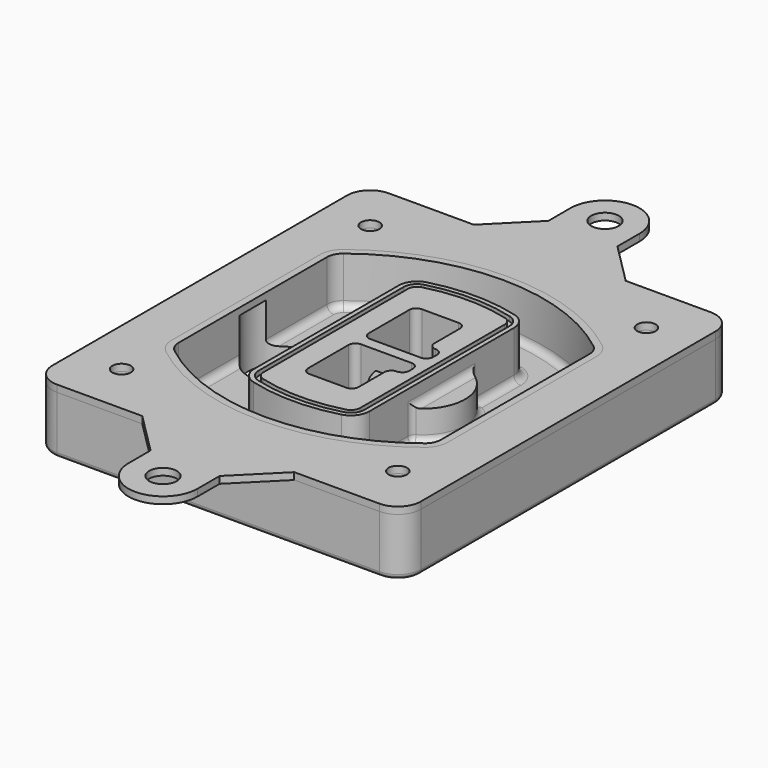
from build123d import *

# Parameters (mm, degrees)
F0_R      = 4
F1_DEPTH  = 25
F2_DEPTH  = 3
F3_DEPTH  = 18
F5_DEPTH  = 21
F6_DEPTH  = 2
F8_DEPTH  = 20
F9_DEPTH  = 16
F10_DEPTH = 25
F7_R      = 6
F7_R_2    = 4
F11_DEPTH = 6
F13_DEPTH = 9
F14_R     = 3
F15_R     = 2
F16_R     = 6
F16_R_2   = 4
F17_DEPTH = 3


with BuildPart() as f1:
    # F0 (on Top) → F1 (new body)
    with BuildSketch(Plane.XY):
        with BuildLine():
            ThreePointArc((-80, -80), (-77.0710678119, -87.0710678119), (-70, -90))
            Line((-70, -90), (70, -90))
            ThreePointArc((70, -90), (77.0710678119, -87.0710678119), (80, -80))
            Line((80, -80), (80, 80))
            ThreePointArc((80, 80), (77.0710678119, 87.0710678119), (70, 90))
            Line((70, 90), (-70, 90))
            ThreePointArc((-70, 90), (-77.0710678119, 87.0710678119), (-80, 80))
            Line((-80, 80), (-80, -80))
        make_face()
        with Locations((-60, -67.5)):
            Circle(F0_R, mode=Mode.SUBTRACT)
        with Locations((60, -67.5)):
            Circle(F0_R, mode=Mode.SUBTRACT)
        with Locations((-60, 67.5)):
            Circle(F0_R, mode=Mode.SUBTRACT)
        with BuildLine():
            ThreePointArc((-64, 40.2934422872), (-62.5820384798, 46.4328484224), (-58.6153846154, 51.3286200352))
            ThreePointArc((-58.6153846154, 51.3286200352), (0, 71.5), (58.6153846154, 51.3286200352))
            ThreePointArc((58.6153846154, 51.3286200352), (62.5820384798, 46.4328484224), (64, 40.2934422872))
            Line((64, 40.2934422872), (64, -40.2934422872))
            ThreePointArc((64, -40.2934422872), (62.5820384798, -46.4328484224), (58.6153846154, -51.3286200352))
            ThreePointArc((58.6153846154, -51.3286200352), (0, -71.5), (-58.6153846154, -51.3286200352))
            ThreePointArc((-58.6153846154, -51.3286200352), (-62.5820384798, -46.4328484224), (-64, -40.2934422872))
            Line((-64, -40.2934422872), (-64, 40.2934422872))
        make_face(mode=Mode.SUBTRACT)
        with Locations((60, 67.5)):
            Circle(F0_R, mode=Mode.SUBTRACT)
        with BuildLine():
            ThreePointArc((58.6153846154, 51.3286200352), (0, 71.5), (-58.6153846154, 51.3286200352))
            ThreePointArc((-58.6153846154, 51.3286200352), (-62.5820384798, 46.4328484224), (-64, 40.2934422872))
            Line((-64, 40.2934422872), (-64, -40.2934422872))
            ThreePointArc((-64, -40.2934422872), (-62.5820384798, -46.4328484224), (-58.6153846154, -51.3286200352))
            ThreePointArc((-58.6153846154, -51.3286200352), (0, -71.5), (58.6153846154, -51.3286200352))
            ThreePointArc((58.6153846154, -51.3286200352), (62.5820384798, -46.4328484224), (64, -40.2934422872))
            Line((64, -40.2934422872), (64, 40.2934422872))
            ThreePointArc((64, 40.2934422872), (62.5820384798, 46.4328484224), (58.6153846154, 51.3286200352))
        make_face()
        with BuildLine():
            Line((-60, -40.2934422872), (-60, 40.2934422872))
            ThreePointArc((-60, 40.2934422872), (-58.9871703427, 44.6787323838), (-56.1538461538, 48.1757121072))
            ThreePointArc((-56.1538461538, 48.1757121072), (0, 67.5), (56.1538461538, 48.1757121072))
            ThreePointArc((56.1538461538, 48.1757121072), (58.9871703427, 44.6787323838), (60, 40.2934422872))
            Line((60, 40.2934422872), (60, -40.2934422872))
            ThreePointArc((60, -40.2934422872), (58.9871703427, -44.6787323838), (56.1538461538, -48.1757121072))
            ThreePointArc((56.1538461538, -48.1757121072), (0, -67.5), (-56.1538461538, -48.1757121072))
            ThreePointArc((-56.1538461538, -48.1757121072), (-58.9871703427, -44.6787323838), (-60, -40.2934422872))
        make_face(mode=Mode.SUBTRACT)
        with BuildLine():
            ThreePointArc((-56.1538461538, 48.1757121072), (-58.9871703427, 44.6787323838), (-60, 40.2934422872))
            Line((-60, 40.2934422872), (-60, -40.2934422872))
            ThreePointArc((-60, -40.2934422872), (-58.9871703427, -44.6787323838), (-56.1538461538, -48.1757121072))
            ThreePointArc((-56.1538461538, -48.1757121072), (0, -67.5), (56.1538461538, -48.1757121072))
            ThreePointArc((56.1538461538, -48.1757121072), (58.9871703427, -44.6787323838), (60, -40.2934422872))
            Line((60, -40.2934422872), (60, 40.2934422872))
            ThreePointArc((60, 40.2934422872), (58.9871703427, 44.6787323838), (56.1538461538, 48.1757121072))
            ThreePointArc((56.1538461538, 48.1757121072), (0, 67.5), (-56.1538461538, 48.1757121072))
        make_face()
        with BuildLine():
            ThreePointArc((54.3076923077, 45.8110311612), (56.2910192399, 43.3631453548), (57, 40.2934422872))
            Line((57, 40.2934422872), (57, -40.2934422872))
            ThreePointArc((57, -40.2934422872), (56.2910192399, -43.3631453548), (54.3076923077, -45.8110311612))
            ThreePointArc((54.3076923077, -45.8110311612), (0, -64.5), (-54.3076923077, -45.8110311612))
            ThreePointArc((-54.3076923077, -45.8110311612), (-56.2910192399, -43.3631453548), (-57, -40.2934422872))
            Line((-57, -40.2934422872), (-57, 40.2934422872))
            ThreePointArc((-57, 40.2934422872), (-56.2910192399, 43.3631453548), (-54.3076923077, 45.8110311612))
            ThreePointArc((-54.3076923077, 45.8110311612), (0, 64.5), (54.3076923077, 45.8110311612))
        make_face(mode=Mode.SUBTRACT)
        with BuildLine():
            Line((57, -40.2934422872), (57, 40.2934422872))
            ThreePointArc((57, 40.2934422872), (56.2910192399, 43.3631453548), (54.3076923077, 45.8110311612))
            ThreePointArc((54.3076923077, 45.8110311612), (0, 64.5), (-54.3076923077, 45.8110311612))
            ThreePointArc((-54.3076923077, 45.8110311612), (-56.2910192399, 43.3631453548), (-57, 40.2934422872))
            Line((-57, 40.2934422872), (-57, -40.2934422872))
            ThreePointArc((-57, -40.2934422872), (-56.2910192399, -43.3631453548), (-54.3076923077, -45.8110311612))
            ThreePointArc((-54.3076923077, -45.8110311612), (0, -64.5), (54.3076923077, -45.8110311612))
            ThreePointArc((54.3076923077, -45.8110311612), (56.2910192399, -43.3631453548), (57, -40.2934422872))
        make_face()
    extrude(amount=-F1_DEPTH)

    # F0 (on Top) → F2 (join)
    with BuildSketch(Plane.XY):
        with BuildLine():
            ThreePointArc((-56.1538461538, 48.1757121072), (-58.9871703427, 44.6787323838), (-60, 40.2934422872))
            Line((-60, 40.2934422872), (-60, -40.2934422872))
            ThreePointArc((-60, -40.2934422872), (-58.9871703427, -44.6787323838), (-56.1538461538, -48.1757121072))
            ThreePointArc((-56.1538461538, -48.1757121072), (0, -67.5), (56.1538461538, -48.1757121072))
            ThreePointArc((56.1538461538, -48.1757121072), (58.9871703427, -44.6787323838), (60, -40.2934422872))
            Line((60, -40.2934422872), (60, 40.2934422872))
            ThreePointArc((60, 40.2934422872), (58.9871703427, 44.6787323838), (56.1538461538, 48.1757121072))
            ThreePointArc((56.1538461538, 48.1757121072), (0, 67.5), (-56.1538461538, 48.1757121072))
        make_face()
        with BuildLine():
            ThreePointArc((54.3076923077, 45.8110311612), (56.2910192399, 43.3631453548), (57, 40.2934422872))
            Line((57, 40.2934422872), (57, -40.2934422872))
            ThreePointArc((57, -40.2934422872), (56.2910192399, -43.3631453548), (54.3076923077, -45.8110311612))
            ThreePointArc((54.3076923077, -45.8110311612), (0, -64.5), (-54.3076923077, -45.8110311612))
            ThreePointArc((-54.3076923077, -45.8110311612), (-56.2910192399, -43.3631453548), (-57, -40.2934422872))
            Line((-57, -40.2934422872), (-57, 40.2934422872))
            ThreePointArc((-57, 40.2934422872), (-56.2910192399, 43.3631453548), (-54.3076923077, 45.8110311612))
            ThreePointArc((-54.3076923077, 45.8110311612), (0, 64.5), (54.3076923077, 45.8110311612))
        make_face(mode=Mode.SUBTRACT)
    extrude(amount=F2_DEPTH)

    # F0 (on Top) → F3 (cut)
    with BuildSketch(Plane.XY):
        with BuildLine():
            Line((57, -40.2934422872), (57, 40.2934422872))
            ThreePointArc((57, 40.2934422872), (56.2910192399, 43.3631453548), (54.3076923077, 45.8110311612))
            ThreePointArc((54.3076923077, 45.8110311612), (0, 64.5), (-54.3076923077, 45.8110311612))
            ThreePointArc((-54.3076923077, 45.8110311612), (-56.2910192399, 43.3631453548), (-57, 40.2934422872))
            Line((-57, 40.2934422872), (-57, -40.2934422872))
            ThreePointArc((-57, -40.2934422872), (-56.2910192399, -43.3631453548), (-54.3076923077, -45.8110311612))
            ThreePointArc((-54.3076923077, -45.8110311612), (0, -64.5), (54.3076923077, -45.8110311612))
            ThreePointArc((54.3076923077, -45.8110311612), (56.2910192399, -43.3631453548), (57, -40.2934422872))
        make_face()
    extrude(amount=-F3_DEPTH, mode=Mode.SUBTRACT)

    # F4 (on face) → F5 (join, through all)
    with BuildSketch(Plane.XY.offset(3)):
        with BuildLine():
            ThreePointArc((-25, -39.2465276821), (-23.3511545998, -44.1109737193), (-19.0842911877, -46.9702398883))
            ThreePointArc((-19.0842911877, -46.9702398883), (0, -49.5), (19.0842911877, -46.9702398883))
            ThreePointArc((19.0842911877, -46.9702398883), (23.3511545998, -44.1109737193), (25, -39.2465276821))
            Line((25, -39.2465276821), (25, 39.2465276821))
            ThreePointArc((25, 39.2465276821), (23.3511545998, 44.1109737193), (19.0842911877, 46.9702398883))
            ThreePointArc((19.0842911877, 46.9702398883), (0, 49.5), (-19.0842911877, 46.9702398883))
            ThreePointArc((-19.0842911877, 46.9702398883), (-23.3511545998, 44.1109737193), (-25, 39.2465276821))
            Line((-25, 39.2465276821), (-25, -39.2465276821))
        make_face()
        with BuildLine():
            ThreePointArc((18.5632183908, 45.0393118368), (21.7633659499, 42.89486221), (23, 39.2465276821))
            Line((23, 39.2465276821), (23, -39.2465276821))
            ThreePointArc((23, -39.2465276821), (21.7633659499, -42.89486221), (18.5632183908, -45.0393118368))
            ThreePointArc((18.5632183908, -45.0393118368), (0, -47.5), (-18.5632183908, -45.0393118368))
            ThreePointArc((-18.5632183908, -45.0393118368), (-21.7633659499, -42.89486221), (-23, -39.2465276821))
            Line((-23, -39.2465276821), (-23, 39.2465276821))
            ThreePointArc((-23, 39.2465276821), (-21.7633659499, 42.89486221), (-18.5632183908, 45.0393118368))
            ThreePointArc((-18.5632183908, 45.0393118368), (0, 47.5), (18.5632183908, 45.0393118368))
        make_face(mode=Mode.SUBTRACT)
        with BuildLine():
            Line((23, -39.2465276821), (23, 39.2465276821))
            ThreePointArc((23, 39.2465276821), (21.7633659499, 42.89486221), (18.5632183908, 45.0393118368))
            ThreePointArc((18.5632183908, 45.0393118368), (0, 47.5), (-18.5632183908, 45.0393118368))
            ThreePointArc((-18.5632183908, 45.0393118368), (-21.7633659499, 42.89486221), (-23, 39.2465276821))
            Line((-23, 39.2465276821), (-23, -39.2465276821))
            ThreePointArc((-23, -39.2465276821), (-21.7633659499, -42.89486221), (-18.5632183908, -45.0393118368))
            ThreePointArc((-18.5632183908, -45.0393118368), (0, -47.5), (18.5632183908, -45.0393118368))
            ThreePointArc((18.5632183908, -45.0393118368), (21.7633659499, -42.89486221), (23, -39.2465276821))
        make_face()
        with BuildLine():
            ThreePointArc((18.0421455939, 43.1083837852), (20.1755772999, 41.6787507007), (21, 39.2465276821))
            Line((21, 39.2465276821), (21, -39.2465276821))
            ThreePointArc((21, -39.2465276821), (20.1755772999, -41.6787507007), (18.0421455939, -43.1083837852))
            ThreePointArc((18.0421455939, -43.1083837852), (0, -45.5), (-18.0421455939, -43.1083837852))
            ThreePointArc((-18.0421455939, -43.1083837852), (-20.1755772999, -41.6787507007), (-21, -39.2465276821))
            Line((-21, -39.2465276821), (-21, 39.2465276821))
            ThreePointArc((-21, 39.2465276821), (-20.1755772999, 41.6787507007), (-18.0421455939, 43.1083837852))
            ThreePointArc((-18.0421455939, 43.1083837852), (0, 45.5), (18.0421455939, 43.1083837852))
        make_face(mode=Mode.SUBTRACT)
        with BuildLine():
            Line((21, -39.2465276821), (21, 39.2465276821))
            ThreePointArc((21, 39.2465276821), (20.1755772999, 41.6787507007), (18.0421455939, 43.1083837852))
            ThreePointArc((18.0421455939, 43.1083837852), (0, 45.5), (-18.0421455939, 43.1083837852))
            ThreePointArc((-18.0421455939, 43.1083837852), (-20.1755772999, 41.6787507007), (-21, 39.2465276821))
            Line((-21, 39.2465276821), (-21, -39.2465276821))
            ThreePointArc((-21, -39.2465276821), (-20.1755772999, -41.6787507007), (-18.0421455939, -43.1083837852))
            ThreePointArc((-18.0421455939, -43.1083837852), (0, -45.5), (18.0421455939, -43.1083837852))
            ThreePointArc((18.0421455939, -43.1083837852), (20.1755772999, -41.6787507007), (21, -39.2465276821))
        make_face()
        with BuildLine():
            Line((-8, -2.5), (14, -2.5))
            ThreePointArc((14, -2.5), (16.1213203436, -3.3786796564), (17, -5.5))
            Line((17, -5.5), (17, -7.5))
            ThreePointArc((17, -7.5), (16.1213203436, -9.6213203436), (14, -10.5))
            ThreePointArc((14, -10.5), (11.8786796564, -11.3786796564), (11, -13.5))
            Line((11, -13.5), (11, -27.5))
            ThreePointArc((11, -27.5), (10.1213203436, -29.6213203436), (8, -30.5))
            Line((8, -30.5), (-8, -30.5))
            ThreePointArc((-8, -30.5), (-10.1213203436, -29.6213203436), (-11, -27.5))
            Line((-11, -27.5), (-11, -5.5))
            ThreePointArc((-11, -5.5), (-10.1213203436, -3.3786796564), (-8, -2.5))
        make_face(mode=Mode.SUBTRACT)
        with BuildLine():
            ThreePointArc((-8, 2.5), (-10.1213203436, 3.3786796564), (-11, 5.5))
            Line((-11, 5.5), (-11, 27.5))
            ThreePointArc((-11, 27.5), (-10.1213203436, 29.6213203436), (-8, 30.5))
            Line((-8, 30.5), (8, 30.5))
            ThreePointArc((8, 30.5), (10.1213203436, 29.6213203436), (11, 27.5))
            Line((11, 27.5), (11, 13.5))
            ThreePointArc((11, 13.5), (11.8786796564, 11.3786796564), (14, 10.5))
            ThreePointArc((14, 10.5), (16.1213203436, 9.6213203436), (17, 7.5))
            Line((17, 7.5), (17, 5.5))
            ThreePointArc((17, 5.5), (16.1213203436, 3.3786796564), (14, 2.5))
            Line((14, 2.5), (-8, 2.5))
        make_face(mode=Mode.SUBTRACT)
    extrude(amount=-F5_DEPTH)

    # F4 (on face) → F6 (cut)
    with BuildSketch(Plane.XY.offset(3)):
        with BuildLine():
            Line((23, -39.2465276821), (23, 39.2465276821))
            ThreePointArc((23, 39.2465276821), (21.7633659499, 42.89486221), (18.5632183908, 45.0393118368))
            ThreePointArc((18.5632183908, 45.0393118368), (0, 47.5), (-18.5632183908, 45.0393118368))
            ThreePointArc((-18.5632183908, 45.0393118368), (-21.7633659499, 42.89486221), (-23, 39.2465276821))
            Line((-23, 39.2465276821), (-23, -39.2465276821))
            ThreePointArc((-23, -39.2465276821), (-21.7633659499, -42.89486221), (-18.5632183908, -45.0393118368))
            ThreePointArc((-18.5632183908, -45.0393118368), (0, -47.5), (18.5632183908, -45.0393118368))
            ThreePointArc((18.5632183908, -45.0393118368), (21.7633659499, -42.89486221), (23, -39.2465276821))
        make_face()
        with BuildLine():
            ThreePointArc((18.0421455939, 43.1083837852), (20.1755772999, 41.6787507007), (21, 39.2465276821))
            Line((21, 39.2465276821), (21, -39.2465276821))
            ThreePointArc((21, -39.2465276821), (20.1755772999, -41.6787507007), (18.0421455939, -43.1083837852))
            ThreePointArc((18.0421455939, -43.1083837852), (0, -45.5), (-18.0421455939, -43.1083837852))
            ThreePointArc((-18.0421455939, -43.1083837852), (-20.1755772999, -41.6787507007), (-21, -39.2465276821))
            Line((-21, -39.2465276821), (-21, 39.2465276821))
            ThreePointArc((-21, 39.2465276821), (-20.1755772999, 41.6787507007), (-18.0421455939, 43.1083837852))
            ThreePointArc((-18.0421455939, 43.1083837852), (0, 45.5), (18.0421455939, 43.1083837852))
        make_face(mode=Mode.SUBTRACT)
    extrude(amount=-F6_DEPTH, mode=Mode.SUBTRACT)

    # F7 (on face) → F8 (join)
    with BuildSketch(Plane(origin=(0, 0, -25), x_dir=(1, 0, 0), z_dir=(0, 0, -1))):
        with BuildLine():
            ThreePointArc((3.28842436, 0), (16.7567035675, 13.4682792075), (30.224982775, 0))
            Line((30.224982775, 0), (35.224982775, 0))
            ThreePointArc((35.224982775, 0), (16.7567035675, 18.4682792075), (-1.71157564, 0))
            Line((-1.71157564, 0), (3.28842436, 0))
        make_face()
        with BuildLine():
            Line((3.28842436, 0), (30.224982775, 0))
            ThreePointArc((30.224982775, 0), (16.7567035675, 13.4682792075), (3.28842436, 0))
        make_face()
        with BuildLine():
            ThreePointArc((3.28842436, 0), (16.7567035675, -13.4682792075), (30.224982775, 0))
            Line((30.224982775, 0), (3.28842436, 0))
        make_face()
        with BuildLine():
            Line((35.224982775, 0), (30.224982775, 0))
            ThreePointArc((30.224982775, 0), (16.7567035675, -13.4682792075), (3.28842436, 0))
            Line((3.28842436, 0), (-1.71157564, 0))
            ThreePointArc((-1.71157564, 0), (16.7567035675, -18.4682792075), (35.224982775, 0))
        make_face()
    extrude(amount=-F8_DEPTH)

    # F7 (on face) → F9 (cut)
    with BuildSketch(Plane(origin=(0, 0, -25), x_dir=(1, 0, 0), z_dir=(0, 0, -1))):
        with BuildLine():
            Line((3.28842436, 0), (30.224982775, 0))
            ThreePointArc((30.224982775, 0), (16.7567035675, 13.4682792075), (3.28842436, 0))
        make_face()
        with BuildLine():
            ThreePointArc((3.28842436, 0), (16.7567035675, -13.4682792075), (30.224982775, 0))
            Line((30.224982775, 0), (3.28842436, 0))
        make_face()
    extrude(amount=-F9_DEPTH, mode=Mode.SUBTRACT)

    # F7 (on face) → F10 (cut)
    with BuildSketch(Plane(origin=(0, 0, -25), x_dir=(1, 0, 0), z_dir=(0, 0, -1))):
        with BuildLine():
            Line((-59.0318229325, 0), (-32.0952645175, 0))
            ThreePointArc((-32.0952645175, 0), (-45.563543725, 13.4682792075), (-59.0318229325, 0))
        make_face()
        with BuildLine():
            ThreePointArc((-59.0318229325, 0), (-45.563543725, -13.4682792075), (-32.0952645175, 0))
            Line((-32.0952645175, 0), (-59.0318229325, 0))
        make_face()
    extrude(amount=-F10_DEPTH, mode=Mode.SUBTRACT)

    # F7 (on face) → F11 (cut)
    with BuildSketch(Plane(origin=(0, 0, -25), x_dir=(1, 0, 0), z_dir=(0, 0, -1))):
        with Locations((60, -67.5)):
            Circle(F7_R)
        with Locations((60, -67.5)):
            Circle(F7_R_2, mode=Mode.SUBTRACT)
        with Locations((60, -67.5)):
            Circle(F7_R)
        with Locations((60, -67.5)):
            Circle(F7_R_2, mode=Mode.SUBTRACT)
        with Locations((-60, -67.5)):
            Circle(F7_R)
        with Locations((-60, -67.5)):
            Circle(F7_R_2, mode=Mode.SUBTRACT)
        with Locations((-60, -67.5)):
            Circle(F7_R)
        with Locations((-60, -67.5)):
            Circle(F7_R_2, mode=Mode.SUBTRACT)
        with Locations((-60, 67.5)):
            Circle(F7_R)
        with Locations((-60, 67.5)):
            Circle(F7_R_2, mode=Mode.SUBTRACT)
        with Locations((-60, 67.5)):
            Circle(F7_R)
        with Locations((-60, 67.5)):
            Circle(F7_R_2, mode=Mode.SUBTRACT)
        with Locations((60, 67.5)):
            Circle(F7_R)
        with Locations((60, 67.5)):
            Circle(F7_R_2, mode=Mode.SUBTRACT)
        with Locations((60, 67.5)):
            Circle(F7_R)
        with Locations((60, 67.5)):
            Circle(F7_R_2, mode=Mode.SUBTRACT)
    extrude(amount=-F11_DEPTH, mode=Mode.SUBTRACT)

    # F12 (on face) → F13 (cut, through all)
    with BuildSketch(Plane(origin=(0, 0, -9), x_dir=(1, 0, 0), z_dir=(0, 0, -1))):
        with BuildLine():
            Line((11, 13.5), (11, 17.5481537753))
            ThreePointArc((11, 17.5481537753), (2.5696536419, 11.8239143813), (-1.5415842455, 2.5))
            Line((-1.5415842455, 2.5), (3.5224848595, 2.5))
            ThreePointArc((3.5224848595, 2.5), (6.1857188154, 8.3455872281), (11.2536447004, 12.2927168648))
            ThreePointArc((11.2536447004, 12.2927168648), (11.0640958889, 12.8831798879), (11, 13.5))
        make_face()
        with BuildLine():
            ThreePointArc((11.2536447004, -12.2927168648), (6.1857188154, -8.3455872281), (3.5224848595, -2.5))
            Line((3.5224848595, -2.5), (-1.5415842455, -2.5))
            ThreePointArc((-1.5415842455, -2.5), (2.5696536419, -11.8239143813), (11, -17.5481537753))
            Line((11, -17.5481537753), (11, -13.5))
            ThreePointArc((11, -13.5), (11.0640958889, -12.8831798879), (11.2536447004, -12.2927168648))
        make_face()
        with BuildLine():
            ThreePointArc((11.2536447004, 12.2927168648), (6.1857188154, 8.3455872281), (3.5224848595, 2.5))
            Line((3.5224848595, 2.5), (14, 2.5))
            ThreePointArc((14, 2.5), (16.1213203436, 3.3786796564), (17, 5.5))
            Line((17, 5.5), (17, 7.5))
            ThreePointArc((17, 7.5), (16.1213203436, 9.6213203436), (14, 10.5))
            ThreePointArc((14, 10.5), (12.3601599782, 10.9878446101), (11.2536447004, 12.2927168648))
        make_face()
        with BuildLine():
            Line((14, -2.5), (3.5224848595, -2.5))
            ThreePointArc((3.5224848595, -2.5), (6.1857188154, -8.3455872281), (11.2536447004, -12.2927168648))
            ThreePointArc((11.2536447004, -12.2927168648), (12.3601599782, -10.9878446101), (14, -10.5))
            ThreePointArc((14, -10.5), (16.1213203436, -9.6213203436), (17, -7.5))
            Line((17, -7.5), (17, -5.5))
            ThreePointArc((17, -5.5), (16.1213203436, -3.3786796564), (14, -2.5))
        make_face()
    extrude(amount=F13_DEPTH, mode=Mode.SUBTRACT)

    # F14
    f14_edges = [f1.edges().sort_by_distance(p)[0] for p in [
        (-57, -23.703476, -18),
        (-57, 23.703476, -18),
        (25, 0, -5),
        (25, 16.526506, -11.5),
        (25, -16.526506, -11.5),
        (25, -27.886517, -18),
        (35.224983, 0, -18),
    ]]
    fillet(f14_edges, radius=F14_R)

    # F15
    f15_edges = [f1.edges().sort_by_distance(p)[0] for p in [
        (0, -90, -25),
    ]]
    fillet(f15_edges, radius=F15_R)


with BuildPart() as f17:
    # F16 (on face) → F17 (new body, through all)
    with BuildSketch(Plane.XY):
        with BuildLine():
            Line((33, -90), (-33, -90))
            Line((-33, -90), (-15, -108))
            Line((-15, -108), (-15, -120))
            ThreePointArc((-15, -120), (0, -135), (15, -120))
            Line((15, -120), (15, -108))
            Line((15, -108), (33, -90))
        make_face()
        with Locations((0, -120)):
            Circle(F16_R, mode=Mode.SUBTRACT)
        with BuildLine():
            Line((33, 90), (-33, 90))
            Line((-33, 90), (-70, 90))
            ThreePointArc((-70, 90), (-77.0710678119, 87.0710678119), (-80, 80))
            Line((-80, 80), (-80, -80))
            ThreePointArc((-80, -80), (-77.0710678119, -87.0710678119), (-70, -90))
            Line((-70, -90), (-33, -90))
            Line((-33, -90), (33, -90))
            Line((33, -90), (70, -90))
            ThreePointArc((70, -90), (77.0710678119, -87.0710678119), (80, -80))
            Line((80, -80), (80, 80))
            ThreePointArc((80, 80), (77.0710678119, 87.0710678119), (70, 90))
            Line((70, 90), (33, 90))
        make_face()
        with Locations((-60, -67.5)):
            Circle(F16_R_2, mode=Mode.SUBTRACT)
        with Locations((60, -67.5)):
            Circle(F16_R_2, mode=Mode.SUBTRACT)
        with Locations((-60, 67.5)):
            Circle(F16_R_2, mode=Mode.SUBTRACT)
        with BuildLine():
            ThreePointArc((-60, 40.2934422872), (-58.9871703427, 44.6787323838), (-56.1538461538, 48.1757121072))
            ThreePointArc((-56.1538461538, 48.1757121072), (0, 67.5), (56.1538461538, 48.1757121072))
            ThreePointArc((56.1538461538, 48.1757121072), (58.9871703427, 44.6787323838), (60, 40.2934422872))
            Line((60, 40.2934422872), (60, -40.2934422872))
            ThreePointArc((60, -40.2934422872), (58.9871703427, -44.6787323838), (56.1538461538, -48.1757121072))
            ThreePointArc((56.1538461538, -48.1757121072), (0, -67.5), (-56.1538461538, -48.1757121072))
            ThreePointArc((-56.1538461538, -48.1757121072), (-58.9871703427, -44.6787323838), (-60, -40.2934422872))
            Line((-60, -40.2934422872), (-60, 40.2934422872))
        make_face(mode=Mode.SUBTRACT)
        with Locations((60, 67.5)):
            Circle(F16_R_2, mode=Mode.SUBTRACT)
        with BuildLine():
            Line((-15, 108), (-33, 90))
            Line((-33, 90), (33, 90))
            Line((33, 90), (15, 108))
            Line((15, 108), (15, 120))
            ThreePointArc((15, 120), (0, 135), (-15, 120))
            Line((-15, 120), (-15, 108))
        make_face()
        with Locations((0, 120)):
            Circle(F16_R, mode=Mode.SUBTRACT)
    extrude(amount=F17_DEPTH)


solid = Compound([f1.part, f17.part])
